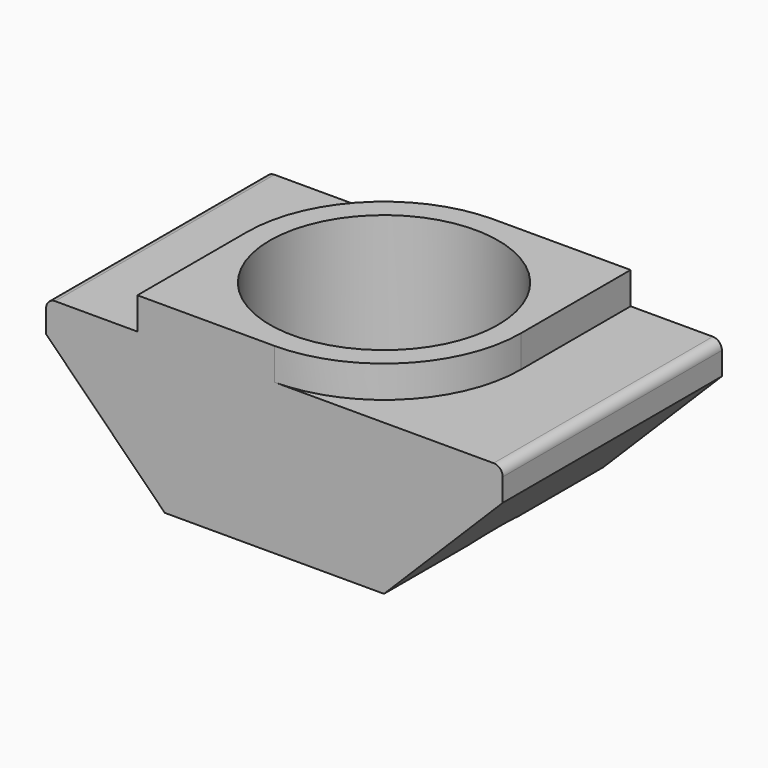
from build123d import *

# Parameters (mm, degrees)
SKETCH_W        = 10
SKETCH_H        = 6
PAD_DEPTH       = 3.3
PAD001_DEPTH    = 0.7
SKETCH002_R     = 2.5
POCKET_DEPTH    = 5
POCKET001_DEPTH = 6
FILLET_R        = 0.2


with BuildPart() as part:
    # Sketch → Pad (new body)
    with BuildSketch(Plane.XY):
        Rectangle(SKETCH_W, SKETCH_H)
    extrude(amount=PAD_DEPTH)

    # Sketch001 (on Face6 of Pad) → Pad001 (join)
    with BuildSketch(Plane.XY.offset(3.3)):
        with BuildLine():
            Line((0, 3), (3, 3))
            Line((3, 3), (3, 0))
            ThreePointArc((0, -3), (2.12132, -2.12132), (3, 0))
            Line((0, -3), (-3, -3))
            Line((-3, -3), (-3, -2e-06))
            ThreePointArc((0, 3), (-2.121321, 2.12132), (-3, -2e-06))
        make_face()
    extrude(amount=PAD001_DEPTH)

    # Sketch002 (on Face12 of Pad001) → Pocket (cut)
    with BuildSketch(Plane.XY.offset(4)):
        Circle(SKETCH002_R)
    extrude(amount=-POCKET_DEPTH, mode=Mode.SUBTRACT)

    # Sketch003 (on Face8 of Pocket) → Pocket001 (cut)
    with BuildSketch(Plane.XZ.offset(3)):
        Polygon((-2.4, 0), (2.4, 0), (5, 2.6), (7.104516, 2.6), (7.104516, -2.6), (-7.104516, -2.6), (-7.104516, 2.6), (-5, 2.6), align=None)
    extrude(amount=-POCKET001_DEPTH, mode=Mode.SUBTRACT)

    # Fillet
    fillet_edges = [part.edges().sort_by_distance(p)[0] for p in [
        (-5, 0, 3.3),
        (5, 0, 3.3),
    ]]
    fillet(fillet_edges, radius=FILLET_R)


solid = part.part
